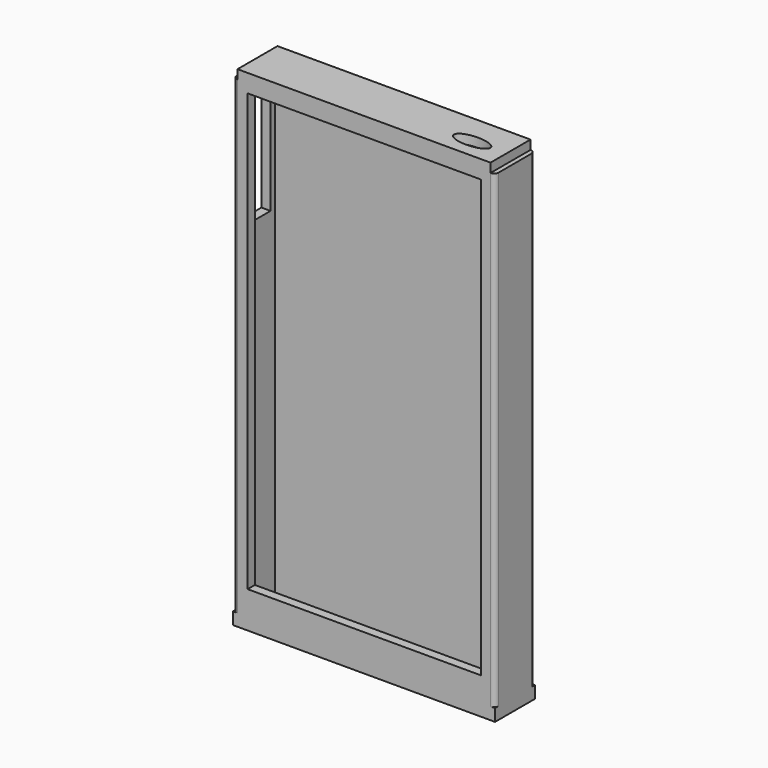
from build123d import *

# Parameters (mm, degrees)
F0_W      = 40.25
F0_H      = 5.25
F1_DEPTH  = 77.5
F2_W      = 38.52346
F2_H      = 72.027471
F3_DEPTH  = 5
F4_W      = 41.75
F4_H      = 8.25
F5_DEPTH  = 1.5
F6_W      = 43.25
F6_H      = 8.25
F6_R      = 3.5
F6_W_2    = 13
F6_H_2    = 5
F7_DEPTH  = 2
F8_W      = 3.5
F8_H      = 18
F9_DEPTH  = 5
F11_DEPTH = 12.5


with BuildPart() as f1:
    # F0 (on Top) → F1 (new body)
    with BuildSketch(Plane.XY):
        with BuildLine():
            Line((-21.625, 3.375), (-21.625, -3.375))
            ThreePointArc((-21.625, -3.375), (-21.40533, -3.90533), (-20.875, -4.125))
            Line((-20.875, -4.125), (20.875, -4.125))
            ThreePointArc((20.875, -4.125), (21.40533, -3.90533), (21.625, -3.375))
            Line((21.625, -3.375), (21.625, 3.375))
            ThreePointArc((21.625, 3.375), (21.40533, 3.90533), (20.875, 4.125))
            Line((20.875, 4.125), (-20.875, 4.125))
            ThreePointArc((-20.875, 4.125), (-21.40533, 3.90533), (-21.625, 3.375))
        make_face()
        Rectangle(F0_W, F0_H, mode=Mode.SUBTRACT)
    extrude(amount=F1_DEPTH)

    # F2 (on face) → F3 (cut)
    with BuildSketch(Plane.XZ.offset(4.125)):
        with Locations((0.057188, 40.02151)):
            Rectangle(F2_W, F2_H)
    extrude(amount=-F3_DEPTH, mode=Mode.SUBTRACT)

    # F4 (on face) → F5 (join)
    with BuildSketch(Plane.XY.offset(77.5)):
        Rectangle(F4_W, F4_H)
        with BuildLine():
            add(Edge.make_bspline(
                [(18.290351, -0.923601), (18.290351, 1.241462), (13.790351, 0.158931), (9.290351, -0.923601), (13.790351, -2.006133), (18.290351, -3.088665), (18.290351, -0.923601)],
                knots=[0, 0, 0, 2.094395, 2.094395, 4.18879, 4.18879, 6.283185, 6.283185, 6.283185], degree=2, weights=[1, 0.5, 1, 0.5, 1, 0.5, 1]))
        make_face(mode=Mode.SUBTRACT)
    extrude(amount=F5_DEPTH)

    # F6 (on Top) → F7 (join)
    with BuildSketch(Plane.XY):
        Rectangle(F6_W, F6_H)
        with Locations((-17.708602, 0)):
            Circle(F6_R, mode=Mode.SUBTRACT)
        with Locations((13.390783, 0.038613)):
            Rectangle(F6_W_2, F6_H_2, mode=Mode.SUBTRACT)
    extrude(amount=-F7_DEPTH)

    # F8 (on face) → F9 (cut)
    with BuildSketch(Plane(origin=(-21.625, 0, 0), x_dir=(0, -1, 0), z_dir=(-1, 0, 0))):
        with Locations((0.002663, 65.263712)):
            Rectangle(F8_W, F8_H)
    extrude(amount=-F9_DEPTH, mode=Mode.SUBTRACT)

    # F10 (on Right) → F11 (join, symmetric)
    with BuildSketch(Plane.YZ):
        Polygon((7.875, 66.051362), (4.125, 66.051362), (4.125, 63.051362), (5.882013, 63.051362), (5.882013, 31.051362), (7.875, 31.051362), align=None)
    extrude(amount=F11_DEPTH, both=True)


solid = f1.part
